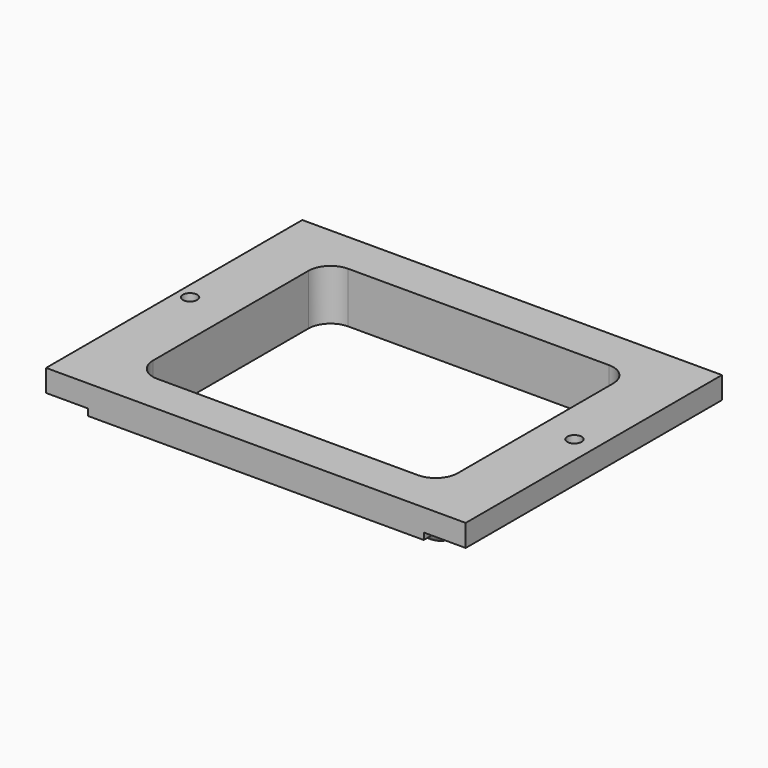
from build123d import *

# Parameters (mm, degrees)
CYLINDER027_R             = 3.25
CYLINDER027_DEPTH         = 10
ARRAY009_X_COUNT          = 2
ARRAY009_X_PITCH          = 174
BOX051_W                  = 138
BOX051_H                  = 108
BOX051_DEPTH              = 37
BOX049_W                  = 152
BOX049_H                  = 145
BOX049_DEPTH              = 10
BOX048_W                  = 190
BOX048_H                  = 145
BOX048_DEPTH              = 10
BOX050_W                  = 149
BOX050_H                  = 118
BOX050_DEPTH              = 20
FILLET001_R               = 10
FILLET002_R               = 8
FILLET003_R               = 5
FILLET003_PLACEMENT_ANGLE = 180


with BuildPart() as array009:
    # Cylinder027 → Cylinder027 (new body)
    with BuildSketch(Plane(origin=(8, 75, 0), x_dir=(1, 0, 0), z_dir=(0, 0, 1))):
        Circle(CYLINDER027_R)
    extrude(amount=CYLINDER027_DEPTH)

    # Array009 X: Array009 ×2


with BuildPart() as array009_1:
    add(array009.part)
    with Locations(*[(i * ARRAY009_X_PITCH, 0, 0) for i in range(1, ARRAY009_X_COUNT)]):
        add(array009.part)


with BuildPart() as array009_2:
    # Array009 placement: moved
    add(array009_1.part.moved(Location((-74, -75, -54))))


with BuildPart() as cubo038:
    # Box051 → Box051 (new body)
    with BuildSketch(Plane(origin=(26, 19, -4), x_dir=(1, 0, 0), z_dir=(0, 0, 1))):
        with Locations((69, 54)):
            Rectangle(BOX051_W, BOX051_H)
    extrude(amount=BOX051_DEPTH)


with BuildPart() as cubo036:
    # Box049 → Box049 (new body)
    with BuildSketch(Plane(origin=(19, 0, 3), x_dir=(1, 0, 0), z_dir=(0, 0, 1))):
        with Locations((76, 72.5)):
            Rectangle(BOX049_W, BOX049_H)
    extrude(amount=BOX049_DEPTH)


with BuildPart() as cubo035:
    # Box048 → Box048 (new body)
    with BuildSketch(Plane.XY):
        with Locations((95, 72.5)):
            Rectangle(BOX048_W, BOX048_H)
    extrude(amount=BOX048_DEPTH)


with BuildPart() as obj1:
    # Box050 → Box050 (new body)
    with BuildSketch(Plane(origin=(20.5, 13.5, 3), x_dir=(1, 0, 0), z_dir=(0, 0, 1))):
        with Locations((74.5, 59)):
            Rectangle(BOX050_W, BOX050_H)
    extrude(amount=BOX050_DEPTH)

    # Fusion026: union Cubo036, Cubo035
    add(cubo036.part)
    add(cubo035.part)

    # Cut035: cut Cubo038
    add(cubo038.part, mode=Mode.SUBTRACT)

    # Fillet001
    fillet001_edges = [obj1.edges().sort_by_distance(p)[0] for p in [
        (164, 19, 11.5),
        (26, 19, 11.5),
        (164, 127, 11.5),
        (26, 127, 11.5),
    ]]
    fillet(fillet001_edges, radius=FILLET001_R)

    # Fillet002
    fillet002_edges = [obj1.edges().sort_by_distance(p)[0] for p in [
        (20.5, 13.5, 18),
        (20.5, 131.5, 18),
        (169.5, 131.5, 18),
        (169.5, 13.5, 18),
    ]]
    fillet(fillet002_edges, radius=FILLET002_R)

    # Fillet003
    fillet003_edges = [obj1.edges().sort_by_distance(p)[0] for p in [
        (20.5, 72.5, 23),
        (22.843146, 15.843146, 23),
        (22.843146, 129.156854, 23),
        (95, 13.5, 23),
        (95, 131.5, 23),
        (167.156854, 15.843146, 23),
        (167.156854, 129.156854, 23),
        (169.5, 72.5, 23),
    ]]
    fillet(fillet003_edges, radius=FILLET003_R)


with BuildPart() as obj1_1:
    # Fillet003 placement: moved
    add(obj1.part.moved(Location((-72, 71, -44))).rotate(Axis((-72, 71, -44), (1, 0, 0)), FILLET003_PLACEMENT_ANGLE))

    # Cut036: cut Array009
    add(array009_2.part, mode=Mode.SUBTRACT)


solid = obj1_1.part
